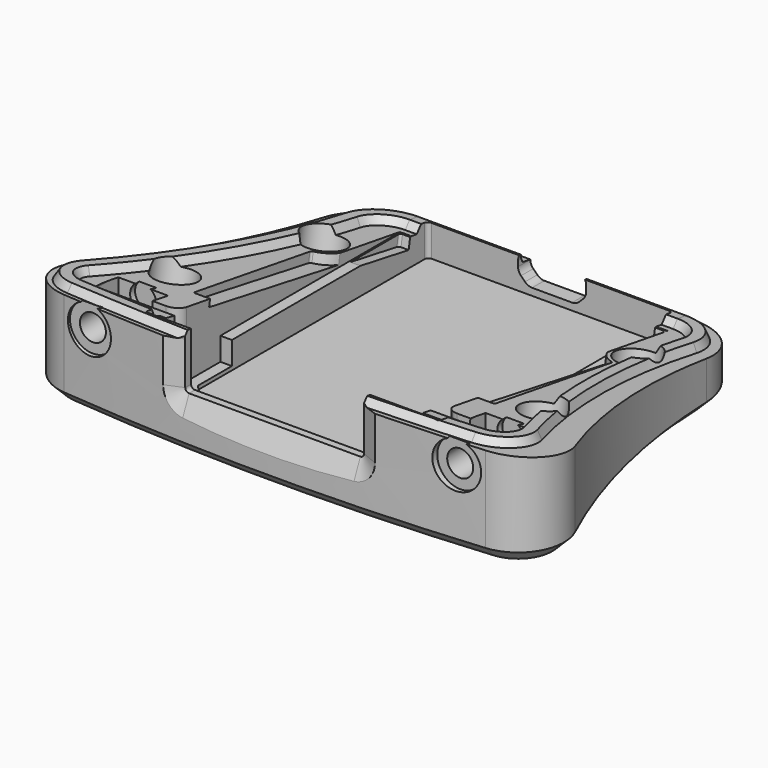
from build123d import *

# Parameters (mm, degrees)
PAD011_DEPTH         = 18
POCKET008_DEPTH      = 34.001
POCKET008_DEPTH_BACK = 34.001
SKETCH079_W          = 23.384
SKETCH079_H          = 8
POCKET021_DEPTH      = 2
PAD009_DEPTH         = 22
POCKET011_DEPTH      = 33.001
POCKET011_DEPTH_BACK = 33.001
CHAMFER_SIZE         = 1.5
POCKET_DEPTH         = 6
POCKET016_DEPTH      = 5
POCKET012_DEPTH      = 17.5
POCKET001_DEPTH      = 4
POCKET002_DEPTH      = 12.5
POCKET010_DEPTH      = 7.0010001
POCKET013_DEPTH      = 12.5
SKETCH072_R          = 1.75
POCKET018_DEPTH      = 2.5
PAD015_DEPTH         = 2
POCKET019_DEPTH      = 5


with BuildPart() as separation_bottom:
    # Sketch030 → Pad011 (new body)
    with BuildSketch(Plane.XY):
        with BuildLine():
            ThreePointArc((25.9934398154, 14.3435699165), (23.2413087871, 20.4842936874), (17, 23))
            Line((-17, 23), (17, 23))
            ThreePointArc((-17, 23), (-23.2413087871, 20.4842936874), (-25.9934398154, 14.3435699165))
            ThreePointArc((-33.3436161838, -16.0405179993), (-28.1506434651, -1.2156635738), (-25.9934398154, 14.3435699165))
            ThreePointArc((-33.3436161838, -16.0405179993), (-33.0707028916, -22.4851924483), (-27.6428571429, -25.9704185451))
            ThreePointArc((-27.6428571429, -25.9704185451), (0, -27.2424211058), (27.6428571429, -25.9704185451))
            ThreePointArc((27.6428571429, -25.9704185451), (33.0707028916, -22.4851924483), (33.3436161838, -16.0405179993))
            ThreePointArc((25.9934398154, 14.3435699165), (28.1506434651, -1.2156635738), (33.3436161838, -16.0405179993))
        make_face()
    extrude(amount=PAD011_DEPTH)

    # Sketch033 → Pocket008 (cut, two sides)
    with BuildSketch(Plane.YZ) as pocket008_sk:
        Polygon((23, 20), (23, 5.1273354101), (-28, 13.2058771319), (-28, 20), align=None)
    extrude(amount=-POCKET008_DEPTH, mode=Mode.SUBTRACT)
    extrude(pocket008_sk.sketch, amount=POCKET008_DEPTH_BACK, mode=Mode.SUBTRACT)

    # AdditivePipe: sweep along a path in Sketch043
    with BuildLine(Plane(origin=(3.0765829621, 5.398168516, 8.1686314289), x_dir=(1, 0, 0), z_dir=(0, -0.1564521345, -0.9876855419))) as additivepipe_path:
        ThreePointArc((24.9552083943, 24.0162185762), (24.6938070415, 27.1528509408), (22.0186035059, 28.811187246))
        ThreePointArc((22.0186035059, 28.811187246), (-4.2909203036, 29.9768170543), (-30.6004441131, 28.811187246))
        ThreePointArc((-30.6004441131, 28.811187246), (-33.3372556477, 27.0482231923), (-33.4385072483, 23.7943135833))
        ThreePointArc((-33.4385072483, 23.7943135833), (-27.5214433191, 7.4293428523), (-25.1686445268, -9.8127060517))
        ThreePointArc((-25.1686445268, -9.8127060517), (-23.7760972538, -12.9719272229), (-20.5765829621, -14.2692223367))
        Line((-20.5765829621, -14.2692223367), (14.4234170379, -14.2692223367))
        ThreePointArc((14.4234170379, -14.2692223367), (17.7245623817, -12.8701588366), (19.0150902104, -9.5250912465))
        ThreePointArc((19.0150902104, -9.5250912465), (20.235201362, 7.5554769519), (24.9552083943, 24.0162185762))
    # Sketch042 → AdditivePipe (sweep)
    with BuildSketch(Plane.YZ):
        Polygon((18.1909396853, 5.8891039277), (18.9176323332, 6.7864617876), (20.3003920918, 6.5674287993), (20.7141804709, 5.4894155755), align=None)
    sweep(path=additivepipe_path.line)

    # Sketch065 (on Binder) → Groove001 (revolve, cut)
    with BuildSketch(Plane(origin=(0, -12.7790121068, 2.2532846212), x_dir=(-1, 0, 0), z_dir=(0, 0.984807753, -0.1736481777))):
        Polygon((-24, -11.3726185567), (-21.95, -11.3726185567), (-21.95, -1.3726185567), (-22.5, -0.8226185567), (-22.5, 1.2273814433), (-21.3, 1.2273814433), (-21.3, 11.2273814433), (-24, 11.2273814433), align=None)
    groove001 = revolve(axis=Axis((24, -14.7538465944, -8.9465583054), (0, -0.1736481777, -0.984807753)), mode=Mode.SUBTRACT)

    # Sketch066 (on Binder) → Groove002 (revolve, cut)
    with BuildSketch(Plane(origin=(0, 7.1028372563, -1.2524218479), x_dir=(-1, 0, 0), z_dir=(0, 0.984807753, -0.1736481777))):
        Polygon((-20.5, -7.8128309145), (-18.45, -7.8128309145), (-18.45, 2.1871690855), (-19, 2.7371690855), (-19, 4.7871690855), (-17.8, 4.7871690855), (-17.8, 14.7871690855), (-20.5, 14.7871690855), align=None)
    groove002 = revolve(axis=Axis((20.5, 5.7461534056, -8.9465583054), (0, -0.1736481777, -0.984807753)), mode=Mode.SUBTRACT)

    # Mirrored004: Groove001, Groove002 across YZ
    add(groove001.mirror(Plane.YZ), mode=Mode.SUBTRACT)
    add(groove002.mirror(Plane.YZ), mode=Mode.SUBTRACT)

    # Sketch079 (on Binder) → Pocket021 (cut, symmetric)
    with BuildSketch(Plane(origin=(0, -23.5, 0), x_dir=(-1, 0, 0), z_dir=(0, 1, 0))):
        with Locations((0.0036009834, 11.208028142)):
            Rectangle(SKETCH079_W, SKETCH079_H)
    extrude(amount=POCKET021_DEPTH, both=True, mode=Mode.SUBTRACT)


with BuildPart() as bottom_housing:
    # Sketch016 → Pad009 (new body)
    with BuildSketch(Plane.XY):
        with BuildLine():
            ThreePointArc((24.9941687248, 14.3053954813), (22.547830033, 19.763816611), (17, 22))
            Line((-17, 22), (17, 22))
            ThreePointArc((-17, 22), (-22.547830033, 19.763816611), (-24.9941687248, 14.3053954813))
            ThreePointArc((-32.4373853004, -16.4633011422), (-27.1786787498, -1.4507903316), (-24.9941687248, 14.3053954813))
            ThreePointArc((-32.4373853004, -16.4633011422), (-32.2034596214, -21.9873078128), (-27.5510204082, -24.9746444672))
            ThreePointArc((-27.5510204082, -24.9746444672), (0, -26.2424211058), (27.5510204082, -24.9746444672))
            ThreePointArc((27.5510204082, -24.9746444672), (32.2034596214, -21.9873078128), (32.4373853004, -16.4633011422))
            ThreePointArc((24.9941687248, 14.3053954813), (27.1786787498, -1.4507903316), (32.4373853004, -16.4633011422))
        make_face()
    extrude(amount=PAD009_DEPTH)

    # Sketch048 → Pocket011 (cut, two sides)
    with BuildSketch(Plane.YZ) as pocket011_sk:
        Polygon((-26.2424211058, 22), (-26.2424211058, 19.8586460584), (22, 11.3522056027), (22, 22), align=None)
    extrude(amount=-POCKET011_DEPTH, mode=Mode.SUBTRACT)
    extrude(pocket011_sk.sketch, amount=POCKET011_DEPTH_BACK, mode=Mode.SUBTRACT)

    # Chamfer
    chamfer_edges = [bottom_housing.edges().sort_by_distance(p)[0] for p in [
        (22.569002, 19.743363, 11.750112),
        (22.54783, 19.763817, 0),
    ]]
    chamfer(chamfer_edges, length=CHAMFER_SIZE)

    # Sketch017 → Pocket (cut)
    with BuildSketch(Plane.XY.offset(2.5)):
        with BuildLine():
            Line((-15.5, 20), (15.5, 20))
            ThreePointArc((16, 19.5), (15.8535533906, 19.8535533906), (15.5, 20))
            Line((16, 19.5), (16, -17.3786796564))
            ThreePointArc((15.8535533906, -17.732233047), (15.9619397663, -17.5700213726), (16, -17.3786796564))
            Line((15.8535533906, -17.732233047), (13.732233047, -19.8535533906))
            ThreePointArc((13.3786796564, -20), (13.5700213726, -19.9619397663), (13.732233047, -19.8535533906))
            Line((13.3786796564, -20), (-13.3786796564, -20))
            ThreePointArc((-13.732233047, -19.8535533906), (-13.5700213726, -19.9619397663), (-13.3786796564, -20))
            Line((-15.8535533906, -17.732233047), (-13.732233047, -19.8535533906))
            ThreePointArc((-16, -17.3786796564), (-15.9619397663, -17.5700213726), (-15.8535533906, -17.732233047))
            Line((-16, -17.3786796564), (-16, 19.5))
            ThreePointArc((-15.5, 20), (-15.8535533906, 19.8535533906), (-16, 19.5))
        make_face()
    extrude(amount=POCKET_DEPTH, mode=Mode.SUBTRACT)

    # Sketch061 (on Binder) → Pocket016 (cut)
    with BuildSketch(Plane(origin=(0, 1.2969820702, 7.3555508352), x_dir=(-1, 0, 0), z_dir=(0, -0.1736481777, -0.984807753))):
        with BuildLine():
            Line((17, 15.8179414824), (-17, 15.8179414824))
            ThreePointArc((-17, 15.8179414824), (-17.2121320344, 15.7300735167), (-17.3, 15.5179414824))
            Line((-17.3, 7.2124099699), (-17.3, 15.5179414824))
            ThreePointArc((-19.4759076456, 4.1807050289), (-17.9002792906, 5.3465449606), (-17.3, 7.2124099699))
            ThreePointArc((-19.4759076456, 4.1807050289), (-19.6236228038, 4.0714075353), (-19.6798989873, 3.8964826907))
            Line((-19.6798989873, 3.8964826907), (-19.6798989873, -15.0820585176))
            ThreePointArc((-19.6798989873, -15.0820585176), (-19.5920310217, -15.294190552), (-19.3798989873, -15.3820585176))
            Line((-19.3798989873, -15.3820585176), (19.3798989873, -15.3820585176))
            ThreePointArc((19.3798989873, -15.3820585176), (19.5920310217, -15.294190552), (19.6798989873, -15.0820585176))
            Line((19.6798989873, -15.0820585176), (19.6798989873, 3.8964826907))
            ThreePointArc((19.6798989873, 3.8964826907), (19.6236228038, 4.0714075353), (19.4759076456, 4.1807050289))
            ThreePointArc((17.3, 7.2124099699), (17.9002792906, 5.3465449606), (19.4759076456, 4.1807050289))
            Line((17.3, 7.2124099699), (17.3, 15.5179414824))
            ThreePointArc((17.3, 15.5179414824), (17.2121320344, 15.7300735167), (17, 15.8179414824))
        make_face()
    extrude(amount=-POCKET016_DEPTH, mode=Mode.SUBTRACT)

    # Sketch050 → Pocket012 (cut, symmetric)
    with BuildSketch(Plane.YZ):
        Polygon((-15.1888639059, 6), (17.3047876744, 6), (18.1879985355, 11.0089376995), (-13.3258495609, 16.5656793848), align=None)
    extrude(amount=POCKET012_DEPTH, both=True, mode=Mode.SUBTRACT)

    # Sketch052 (on DatumPlane) → AdditiveLoft section 0
    with BuildSketch(Plane(origin=(5.8333333333, 7.6833825034, 12.8611849279), x_dir=(-1, 0, 0), z_dir=(0, 0.1736481777, 0.984807753))):
        with BuildLine():
            ThreePointArc((5.0833333333, 1.115391851), (5.8333333333, 0.365391851), (6.5833333333, 1.115391851))
            Line((6.5833333333, 1.115391851), (6.5833333333, 4.365391851))
            Line((6.5833333333, 4.365391851), (9.8333333333, 4.365391851))
            ThreePointArc((9.8333333333, 4.365391851), (10.5833333333, 5.115391851), (9.8333333333, 5.865391851))
            Line((9.8333333333, 5.865391851), (6.5833333333, 5.865391851))
            Line((6.5833333333, 5.865391851), (6.5833333333, 9.115391851))
            ThreePointArc((6.5833333333, 9.115391851), (5.8333333333, 9.865391851), (5.0833333333, 9.115391851))
            Line((5.0833333333, 9.115391851), (5.0833333333, 5.865391851))
            Line((5.0833333333, 5.865391851), (1.8333333333, 5.865391851))
            ThreePointArc((1.8333333333, 5.865391851), (1.0833333333, 5.115391851), (1.8333333333, 4.365391851))
            Line((1.8333333333, 4.365391851), (5.0833333333, 4.365391851))
            Line((5.0833333333, 4.365391851), (5.0833333333, 1.115391851))
        make_face()
    # Sketch053 (on DatumPlane) → AdditiveLoft section 1
    with BuildSketch(Plane(origin=(5.8333333333, 7.3360861481, 10.8915694219), x_dir=(-1, 0, 0), z_dir=(0, 0.1736481777, 0.984807753))):
        with BuildLine():
            ThreePointArc((1.8333333333, 5.515391851), (1.4333333333, 5.115391851), (1.8333333333, 4.715391851))
            Line((1.8333333333, 4.715391851), (5.4333333333, 4.715391851))
            Line((5.4333333333, 4.715391851), (5.4333333333, 1.115391851))
            ThreePointArc((5.4333333333, 1.115391851), (5.8333333333, 0.715391851), (6.2333333333, 1.115391851))
            Line((6.2333333333, 1.115391851), (6.2333333333, 4.715391851))
            Line((6.2333333333, 4.715391851), (9.8333333333, 4.715391851))
            ThreePointArc((9.8333333333, 4.715391851), (10.2333333333, 5.115391851), (9.8333333333, 5.515391851))
            Line((9.8333333333, 5.515391851), (6.2333333333, 5.515391851))
            Line((6.2333333333, 5.515391851), (6.2333333333, 9.115391851))
            ThreePointArc((6.2333333333, 9.115391851), (5.8333333333, 9.515391851), (5.4333333333, 9.115391851))
            Line((5.4333333333, 9.115391851), (5.4333333333, 5.515391851))
            Line((5.4333333333, 5.515391851), (1.8333333333, 5.515391851))
        make_face()
    loft()

    # Sketch018 → Pocket001 (cut)
    with BuildSketch(Plane.XZ.offset(20.5)):
        with BuildLine():
            Line((-23.75, 6.3915608176), (-21, 7.9792740578))
            ThreePointArc((-21, 7.9792740578), (-20.8169872981, 8.1622867597), (-20.75, 8.4122867597))
            Line((-20.75, 8.4122867597), (-20.75, 11.5877132403))
            ThreePointArc((-20.75, 11.5877132403), (-20.8169872981, 11.8377132403), (-21, 12.0207259422))
            Line((-23.75, 13.6084391824), (-21, 12.0207259422))
            ThreePointArc((-23.75, 13.6084391824), (-24, 13.6754264805), (-24.25, 13.6084391824))
            Line((-27, 12.0207259422), (-24.25, 13.6084391824))
            ThreePointArc((-27, 12.0207259422), (-27.1830127019, 11.8377132403), (-27.25, 11.5877132403))
            Line((-27.25, 11.5877132403), (-27.25, 8.4122867597))
            ThreePointArc((-27.25, 8.4122867597), (-27.1830127019, 8.1622867597), (-27, 7.9792740578))
            Line((-27, 7.9792740578), (-24.25, 6.3915608176))
            ThreePointArc((-24.25, 6.3915608176), (-24, 6.3245735195), (-23.75, 6.3915608176))
        make_face()
        with BuildLine():
            Line((20.75, 11.5877132403), (20.75, 8.4122867597))
            ThreePointArc((20.75, 8.4122867597), (20.8169872981, 8.1622867597), (21, 7.9792740578))
            Line((21, 7.9792740578), (23.75, 6.3915608176))
            ThreePointArc((23.75, 6.3915608176), (24, 6.3245735195), (24.25, 6.3915608176))
            Line((24.25, 6.3915608176), (27, 7.9792740578))
            ThreePointArc((27, 7.9792740578), (27.1830127019, 8.1622867597), (27.25, 8.4122867597))
            Line((27.25, 8.4122867597), (27.25, 11.5877132403))
            ThreePointArc((27.25, 11.5877132403), (27.1830127019, 11.8377132403), (27, 12.0207259422))
            Line((24.25, 13.6084391824), (27, 12.0207259422))
            ThreePointArc((24.25, 13.6084391824), (24, 13.6754264805), (23.75, 13.6084391824))
            Line((21, 12.0207259422), (23.75, 13.6084391824))
            ThreePointArc((21, 12.0207259422), (20.8169872981, 11.8377132403), (20.75, 11.5877132403))
        make_face()
    extrude(amount=-POCKET001_DEPTH, mode=Mode.SUBTRACT)

    # Sketch047 → Groove (revolve, cut)
    with BuildSketch(Plane.XY.offset(10)):
        Polygon((24, -15.7), (24, -25.7), (27, -25.7), (27, -24.7), (25.7, -24.7), (25.7, -15.7), align=None)
    groove = revolve(axis=Axis((24, -15.7, 10), (0, 1, 0)), mode=Mode.SUBTRACT)

    # Mirrored: Groove across YZ
    add(groove.mirror(Plane.YZ), mode=Mode.SUBTRACT)

    # Sketch019 → Pocket002 (cut)
    with BuildSketch(Plane.XY.offset(3)):
        with BuildLine():
            ThreePointArc((-17.4338, -21.75), (-17.6105766953, -21.8232233047), (-17.6838, -22))
            Line((-17.6838, -23.78943), (-17.6838, -22))
            ThreePointArc((-17.6838, -23.78943), (-17.6105766953, -23.9662066953), (-17.4338, -24.03943))
            Line((20.5138, -24.03943), (-17.4338, -24.03943))
            ThreePointArc((20.5138, -24.03943), (20.6905766953, -23.9662066953), (20.7638, -23.78943))
            Line((20.7638, -22), (20.7638, -23.78943))
            ThreePointArc((20.7638, -22), (20.6905766953, -21.8232233047), (20.5138, -21.75))
            Line((16.7638, -21.75), (20.5138, -21.75))
            Line((16.7638, -20), (16.7638, -21.75))
            Line((-15.4338, -20), (16.7638, -20))
            Line((-15.4338, -21.75), (-15.4338, -20))
            Line((-17.4338, -21.75), (-15.4338, -21.75))
        make_face()
    extrude(amount=POCKET002_DEPTH, mode=Mode.SUBTRACT)

    # SubtractivePipe: sweep along a path in Sketch037
    with BuildLine(Plane.XY) as subtractivepipe_path:
        ThreePointArc((-8.1, -7), (-13.98854382, -14.05572809), (-16.1, -23))
    # Sketch036 → SubtractivePipe (sweep, cut)
    with BuildSketch(Plane.XZ.offset(23)):
        with BuildLine():
            ThreePointArc((-15.35, 13.5), (-16.1, 14.25), (-16.85, 13.5))
            Line((-16.85, 13.5), (-16.85, 5))
            ThreePointArc((-16.85, 5), (-16.1, 4.25), (-15.35, 5))
            Line((-15.35, 5), (-15.35, 13.5))
        make_face()
    sweep(path=subtractivepipe_path.line, mode=Mode.SUBTRACT)

    # Sketch038 → SubtractiveLoft section 0
    with BuildSketch(Plane.XZ.offset(23.5)):
        with BuildLine():
            ThreePointArc((-11.1956009834, 13.292028142), (-11.5491543739, 13.1455815326), (-11.6956009834, 12.792028142))
            Line((-11.6956009834, 7.208028142), (-11.6956009834, 12.792028142))
            ThreePointArc((-11.6956009834, 7.208028142), (-11.5491543739, 6.8544747514), (-11.1956009834, 6.708028142))
            Line((11.1883990166, 6.708028142), (-11.1956009834, 6.708028142))
            ThreePointArc((11.1883990166, 6.708028142), (11.5419524072, 6.8544747514), (11.6883990166, 7.208028142))
            Line((11.6883990166, 12.792028142), (11.6883990166, 7.208028142))
            ThreePointArc((11.6883990166, 12.792028142), (11.5419524072, 13.1455815326), (11.1883990166, 13.292028142))
            Line((-11.1956009834, 13.292028142), (11.1883990166, 13.292028142))
        make_face()
    # Sketch078 → SubtractiveLoft section 1
    with BuildSketch(Plane.XZ.offset(25)):
        with BuildLine():
            ThreePointArc((-11.1956009834, 13.292028142), (-11.5491543739, 13.1455815326), (-11.6956009834, 12.792028142))
            Line((-11.6956009834, 7.208028142), (-11.6956009834, 12.792028142))
            ThreePointArc((-11.6956009834, 7.208028142), (-11.5491543739, 6.8544747514), (-11.1956009834, 6.708028142))
            Line((11.1883990166, 6.708028142), (-11.1956009834, 6.708028142))
            ThreePointArc((11.1883990166, 6.708028142), (11.5419524072, 6.8544747514), (11.6883990166, 7.208028142))
            Line((11.6883990166, 12.792028142), (11.6883990166, 7.208028142))
            ThreePointArc((11.6883990166, 12.792028142), (11.5419524072, 13.1455815326), (11.1883990166, 13.292028142))
            Line((-11.1956009834, 13.292028142), (11.1883990166, 13.292028142))
        make_face()
    # Sketch039 → SubtractiveLoft section 2
    with BuildSketch(Plane.XZ.offset(26.5)):
        with BuildLine():
            ThreePointArc((-11.1956009834, 16.792028142), (-14.0240281081, 15.6204552668), (-15.1956009834, 12.792028142))
            Line((-15.1956009834, 7.208028142), (-15.1956009834, 12.792028142))
            ThreePointArc((-15.1956009834, 7.208028142), (-14.0240281081, 4.3796010173), (-11.1956009834, 3.208028142))
            Line((11.1883990166, 3.208028142), (-11.1956009834, 3.208028142))
            ThreePointArc((11.1883990166, 3.208028142), (14.0168261414, 4.3796010173), (15.1883990166, 7.208028142))
            Line((15.1883990166, 12.792028142), (15.1883990166, 7.208028142))
            ThreePointArc((15.1883990166, 12.792028142), (14.0168261414, 15.6204552668), (11.1883990166, 16.792028142))
            Line((-11.1956009834, 16.792028142), (11.1883990166, 16.792028142))
        make_face()
    loft(ruled=True, mode=Mode.SUBTRACT)

    # Sketch046 → Pocket010 (cut, through all)
    with BuildSketch(Plane.XZ.offset(-15)):
        with BuildLine():
            Line((-4.2, 5.98), (-4.2, 5.2613640687))
            ThreePointArc((-4.2, 5.2613640687), (-4.1010433923, 4.7638756067), (-3.8192388156, 4.3421252532))
            Line((-3.8192388156, 4.3421252532), (-3.2878679656, 3.8107544033))
            ThreePointArc((-3.2878679656, 3.8107544033), (-2.8661176122, 3.5289498266), (-2.3686291501, 3.4299932188))
            Line((-2.3686291501, 3.4299932188), (2.8686291501, 3.4299932188))
            ThreePointArc((2.8686291501, 3.4299932188), (3.3661176122, 3.5289498266), (3.7878679656, 3.8107544033))
            Line((3.7878679656, 3.8107544033), (4.3192388156, 4.3421252532))
            ThreePointArc((4.3192388156, 4.3421252532), (4.6010433923, 4.7638756066), (4.7, 5.2613640687))
            Line((4.7, 5.2613640687), (4.7, 5.98))
            ThreePointArc((4.7, 5.98), (4.3192388155, 6.8992388155), (3.4, 7.28))
            Line((3.4, 7.28), (-2.9, 7.28))
            ThreePointArc((-2.9, 7.28), (-3.8192388155, 6.8992388155), (-4.2, 5.98))
        make_face()
    extrude(amount=-POCKET010_DEPTH, mode=Mode.SUBTRACT)

    # Sketch051 → Pocket013 (cut)
    with BuildSketch(Plane.XY.offset(3)):
        with BuildLine():
            Line((-21, -19), (-19, -19))
            ThreePointArc((-19, -19), (-17.9393398282, -18.5606601718), (-17.5, -17.5))
            Line((-17.5, -17.5), (-17.5, -12))
            Line((-17.5, -12), (17.5, -12))
            Line((17.5, -12), (17.5, -17.5))
            ThreePointArc((17.5, -17.5), (17.9393398282, -18.5606601718), (19, -19))
            Line((19, -19), (21, -19))
            Line((21, -19), (21, -20.5))
            Line((21, -20.5), (-21, -20.5))
            Line((-21, -20.5), (-21, -19))
        make_face()
    extrude(amount=POCKET013_DEPTH, mode=Mode.SUBTRACT)

    # Sketch072 (on DatumPlane) → Pocket018 (cut, symmetric)
    with BuildSketch(Plane(origin=(5.8333333333, 7.6833825034, 12.8611849279), x_dir=(-1, 0, 0), z_dir=(0, 0.1736481777, 0.984807753))):
        with Locations((5.8333333333, 25.2354619681)):
            Circle(SKETCH072_R)
    extrude(amount=POCKET018_DEPTH, both=True, mode=Mode.SUBTRACT)

    # Sketch073 (on DatumPlane) → Pad015 (join)
    with BuildSketch(Plane(origin=(5.8333333333, 7.5097343257, 11.8763771749), x_dir=(-1, 0, 0), z_dir=(0, 0.1736481777, 0.984807753))):
        with BuildLine():
            Line((3.494583796, 27.0346289432), (4.144583796, 28.1604619681))
            Line((4.144583796, 28.1604619681), (7.5220828707, 28.1604619681))
            Line((7.5220828707, 28.1604619681), (8.1720828707, 27.0346289432))
            ThreePointArc((8.1720828707, 27.0346289432), (8.8550955726, 26.8516162413), (9.0381082745, 27.5346289432))
            Line((9.0381082745, 27.5346289432), (8.3881082745, 28.6604619681))
            ThreePointArc((8.3881082745, 28.6604619681), (8.0220828707, 29.0264873719), (7.5220828707, 29.1604619681))
            Line((7.5220828707, 29.1604619681), (4.144583796, 29.1604619681))
            ThreePointArc((4.144583796, 29.1604619681), (3.644583796, 29.0264873719), (3.2785583922, 28.6604619681))
            Line((3.2785583922, 28.6604619681), (2.6285583922, 27.5346289432))
            ThreePointArc((2.6285583922, 27.5346289432), (2.8115710941, 26.8516162413), (3.494583796, 27.0346289432))
        make_face()
        with BuildLine():
            Line((3.494583796, 23.436294993), (4.144583796, 22.3104619681))
            Line((4.144583796, 22.3104619681), (7.5220828707, 22.3104619681))
            Line((7.5220828707, 22.3104619681), (8.1720828707, 23.436294993))
            ThreePointArc((9.0381082745, 22.936294993), (8.8550955726, 23.6193076949), (8.1720828707, 23.436294993))
            Line((9.0381082745, 22.936294993), (8.3881082745, 21.8104619681))
            ThreePointArc((7.5220828707, 21.3104619681), (8.0220828707, 21.4444365643), (8.3881082745, 21.8104619681))
            Line((7.5220828707, 21.3104619681), (4.144583796, 21.3104619681))
            ThreePointArc((3.2785583922, 21.8104619681), (3.644583796, 21.4444365643), (4.144583796, 21.3104619681))
            Line((3.2785583922, 21.8104619681), (2.6285583922, 22.936294993))
            ThreePointArc((3.494583796, 23.436294993), (2.8115710941, 23.6193076949), (2.6285583922, 22.936294993))
        make_face()
    extrude(amount=-PAD015_DEPTH)

    # Sketch074 (on DatumPlane) → Pocket019 (cut)
    with BuildSketch(Plane(origin=(5.8333333333, 7.5097343257, 11.8763771749), x_dir=(-1, 0, 0), z_dir=(0, 0.1736481777, 0.984807753))):
        with BuildLine():
            Line((7.5220828707, 28.1604619681), (4.144583796, 28.1604619681))
            Line((4.144583796, 28.1604619681), (3.0331845278, 26.2354619681))
            Line((3.0331845278, 26.2354619681), (-7.5441657414, 26.2354619681))
            ThreePointArc((-7.5441657414, 26.2354619681), (-8.5441657414, 25.2354619681), (-7.5441657414, 24.2354619681))
            Line((-7.5441657414, 24.2354619681), (3.0331845278, 24.2354619681))
            Line((3.0331845278, 24.2354619681), (4.144583796, 22.3104619681))
            Line((4.144583796, 22.3104619681), (7.5220828707, 22.3104619681))
            Line((7.5220828707, 22.3104619681), (9.2108324081, 25.2354619681))
            Line((9.2108324081, 25.2354619681), (7.5220828707, 28.1604619681))
        make_face()
    extrude(amount=-POCKET019_DEPTH, mode=Mode.SUBTRACT)

    # Common: intersect Separation bottom
    add(separation_bottom.part, mode=Mode.INTERSECT)


solid = bottom_housing.part
